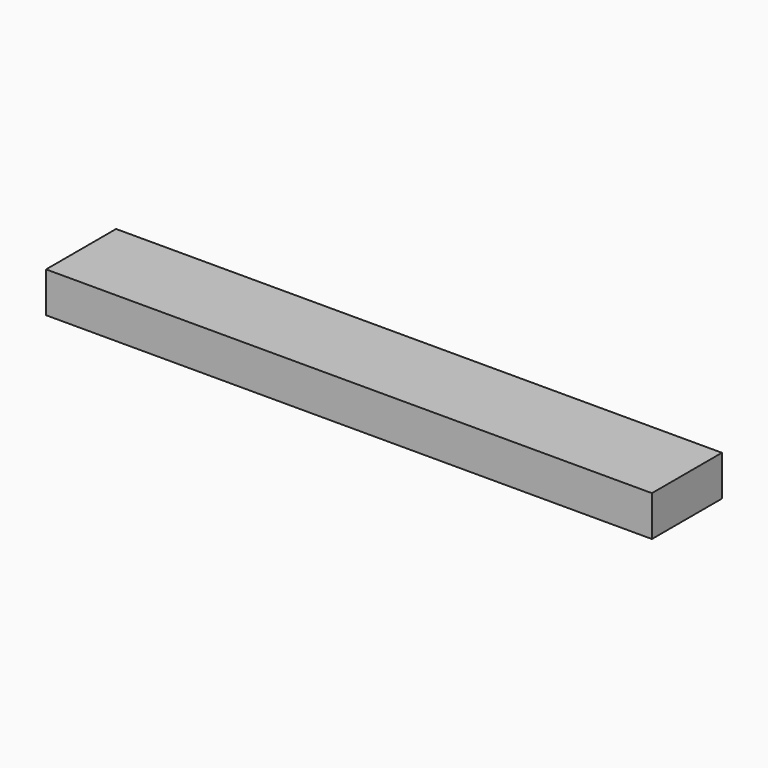
from build123d import *

# Parameters (mm, degrees)
SKETCH040_W             = 2.3
SKETCH040_H             = 1.7
PAD037_DEPTH            = 1.3
BODY038_PLACEMENT_ANGLE = 90
SKETCH031_W             = 3.2
SKETCH031_H             = 3
PAD028_DEPTH            = 1.2
CHAMFER014_SIZE         = 1
SKETCH030_W             = 3.2
SKETCH030_H             = 3
PAD027_DEPTH            = 1.2
CHAMFER013_SIZE         = 1
SKETCH037_W             = 2.3
SKETCH037_H             = 1.7
PAD034_DEPTH            = 0.5
BODY035_PLACEMENT_ANGLE = 90
SKETCH036_W             = 2.3
SKETCH036_H             = 1.7
PAD033_DEPTH            = 0.5
BODY034_PLACEMENT_ANGLE = 90
SKETCH028_W             = 3.2
SKETCH028_H             = 3
PAD025_DEPTH            = 1.2
CHAMFER011_SIZE         = 1
SKETCH029_W             = 3.2
SKETCH029_H             = 3
PAD026_DEPTH            = 1.2
CHAMFER012_SIZE         = 1
SKETCH054_W             = 3.2
SKETCH054_H             = 3
PAD049_DEPTH            = 1.2
CHAMFER021_SIZE         = 0.5
SKETCH055_W             = 1.850896
SKETCH055_H             = 1.017
SKETCH055_W_2           = 1.709498
SKETCH055_H_2           = 1.155216
POCKET005_DEPTH         = 5
BODY050_PLACEMENT_ANGLE = 180
SKETCH052_W             = 3.2
SKETCH052_H             = 3
PAD048_DEPTH            = 1.2
CHAMFER020_SIZE         = 1
SKETCH053_W             = 2.017963
SKETCH053_H             = 1.017
SKETCH053_W_2           = 1.827715
SKETCH053_H_2           = 1.155216
POCKET004_DEPTH         = 5
SKETCH048_W             = 2.3
SKETCH048_H             = 1.7
PAD045_DEPTH            = 0.9
BODY046_PLACEMENT_ANGLE = 90
SKETCH045_W             = 2.3
SKETCH045_H             = 1.7
PAD042_DEPTH            = 0.5
BODY043_PLACEMENT_ANGLE = 90
SKETCH044_W             = 2.3
SKETCH044_H             = 1.7
PAD041_DEPTH            = 0.5
BODY042_PLACEMENT_ANGLE = 90
SKETCH046_W             = 2.3
SKETCH046_H             = 1.7
PAD043_DEPTH            = 1.3
BODY044_PLACEMENT_ANGLE = 90
SKETCH049_W             = 2.3
SKETCH049_H             = 1.7
PAD046_DEPTH            = 0.9
BODY047_PLACEMENT_ANGLE = 90
SKETCH050_W             = 3.2
SKETCH050_H             = 3
PAD047_DEPTH            = 1.2
CHAMFER019_SIZE         = 1
SKETCH051_W             = 2.017963
SKETCH051_H             = 1.017
POCKET003_DEPTH         = 5
BODY048_PLACEMENT_ANGLE = 180
SKETCH042_W             = 2.3
SKETCH042_H             = 1.7
PAD039_DEPTH            = 0.5
BODY040_PLACEMENT_ANGLE = 90
SKETCH043_W             = 2.3
SKETCH043_H             = 1.7
PAD040_DEPTH            = 0.5
BODY041_PLACEMENT_ANGLE = 90
SKETCH047_W             = 2.3
SKETCH047_H             = 1.7
PAD044_DEPTH            = 0.5
BODY045_PLACEMENT_ANGLE = 90
SKETCH034_W             = 3.2
SKETCH034_H             = 3
PAD030_DEPTH            = 1.2
CHAMFER017_SIZE         = 1
SKETCH033_W             = 3.2
SKETCH033_H             = 3
PAD029_DEPTH            = 1.2
CHAMFER018_SIZE         = 1
SKETCH039_W             = 2.3
SKETCH039_H             = 1.7
PAD035_DEPTH            = 0.5
BODY037_PLACEMENT_ANGLE = 90
SKETCH038_W             = 2.3
SKETCH038_H             = 1.7
PAD036_DEPTH            = 0.5
BODY036_PLACEMENT_ANGLE = 90
SKETCH035_W             = 3.2
SKETCH035_H             = 3
PAD031_DEPTH            = 1.2
CHAMFER016_SIZE         = 1
SKETCH032_W             = 3.2
SKETCH032_H             = 3
PAD032_DEPTH            = 1.2
CHAMFER015_SIZE         = 1
SKETCH041_W             = 2.3
SKETCH041_H             = 1.7
PAD038_DEPTH            = 1.3
BODY039_PLACEMENT_ANGLE = 90
SKETCH056_W             = 90
SKETCH056_H             = 13
PAD050_DEPTH            = 6


with BuildPart() as capacitor_1u003:
    # Sketch040 → Pad037 (new body)
    with BuildSketch(Plane.XY):
        Rectangle(SKETCH040_W, SKETCH040_H)
    extrude(amount=PAD037_DEPTH)


with BuildPart() as capacitor_1u003_1:
    # Body038 placement: moved
    add(capacitor_1u003.part.moved(Location((-41.91, 0, 0))).rotate(Axis((-41.91, 0, 0), (0, 0, 1)), BODY038_PLACEMENT_ANGLE))


with BuildPart() as obj1:
    # Sketch031 → Pad028 (new body)
    with BuildSketch(Plane.XY):
        Rectangle(SKETCH031_W, SKETCH031_H)
    extrude(amount=PAD028_DEPTH)

    # Chamfer014
    chamfer014_edges = [obj1.edges().sort_by_distance(p)[0] for p in [
        (-1.6, 0, 1.2),
        (1.6, 0, 1.2),
    ]]
    chamfer(chamfer014_edges, length=CHAMFER014_SIZE)


with BuildPart() as obj1_1:
    # Body029 placement: moved
    add(obj1.part.moved(Location((-36.83, 0, 0))))


with BuildPart() as obj2:
    # Sketch030 → Pad027 (new body)
    with BuildSketch(Plane.XY):
        Rectangle(SKETCH030_W, SKETCH030_H)
    extrude(amount=PAD027_DEPTH)

    # Chamfer013
    chamfer013_edges = [obj2.edges().sort_by_distance(p)[0] for p in [
        (-1.6, 0, 1.2),
        (1.6, 0, 1.2),
    ]]
    chamfer(chamfer013_edges, length=CHAMFER013_SIZE)


with BuildPart() as obj2_1:
    # Body028 placement: moved
    add(obj2.part.moved(Location((-33.02, 0, 0))))


with BuildPart() as resistor_10k010:
    # Sketch037 → Pad034 (new body)
    with BuildSketch(Plane.XY):
        Rectangle(SKETCH037_W, SKETCH037_H)
    extrude(amount=PAD034_DEPTH)


with BuildPart() as resistor_10k010_1:
    # Body035 placement: moved
    add(resistor_10k010.part.moved(Location((-30.1625, 0, 0))).rotate(Axis((-30.1625, 0, 0), (0, 0, 1)), BODY035_PLACEMENT_ANGLE))


with BuildPart() as resistor_10k009:
    # Sketch036 → Pad033 (new body)
    with BuildSketch(Plane.XY):
        Rectangle(SKETCH036_W, SKETCH036_H)
    extrude(amount=PAD033_DEPTH)


with BuildPart() as resistor_10k009_1:
    # Body034 placement: moved
    add(resistor_10k009.part.moved(Location((-28.2575, 0, 0))).rotate(Axis((-28.2575, 0, 0), (0, 0, 1)), BODY034_PLACEMENT_ANGLE))


with BuildPart() as obj3:
    # Sketch028 → Pad025 (new body)
    with BuildSketch(Plane.XY):
        Rectangle(SKETCH028_W, SKETCH028_H)
    extrude(amount=PAD025_DEPTH)

    # Chamfer011
    chamfer011_edges = [obj3.edges().sort_by_distance(p)[0] for p in [
        (-1.6, 0, 1.2),
        (1.6, 0, 1.2),
    ]]
    chamfer(chamfer011_edges, length=CHAMFER011_SIZE)


with BuildPart() as obj3_1:
    # Body026 placement: moved
    add(obj3.part.moved(Location((-25.4, 0, 0))))


with BuildPart() as obj4:
    # Sketch029 → Pad026 (new body)
    with BuildSketch(Plane.XY):
        Rectangle(SKETCH029_W, SKETCH029_H)
    extrude(amount=PAD026_DEPTH)

    # Chamfer012
    chamfer012_edges = [obj4.edges().sort_by_distance(p)[0] for p in [
        (-1.6, 0, 1.2),
        (1.6, 0, 1.2),
    ]]
    chamfer(chamfer012_edges, length=CHAMFER012_SIZE)


with BuildPart() as obj4_1:
    # Body027 placement: moved
    add(obj4.part.moved(Location((-21.59, 0, 0))))


with BuildPart() as sot23_big001:
    # Sketch054 → Pad049 (new body)
    with BuildSketch(Plane.XY):
        Rectangle(SKETCH054_W, SKETCH054_H)
    extrude(amount=PAD049_DEPTH)

    # Chamfer021
    chamfer021_edges = [sot23_big001.edges().sort_by_distance(p)[0] for p in [
        (-1.6, 0, 1.2),
        (1.6, 0, 1.2),
    ]]
    chamfer(chamfer021_edges, length=CHAMFER021_SIZE)

    # Sketch055 (on Face5 of Chamfer021) → Pocket005 (cut)
    with BuildSketch(Plane.XY.offset(1.2)):
        with Locations((-1.851985, 0)):
            Rectangle(SKETCH055_W, SKETCH055_H)
        with Locations((1.75658, 1.133439)):
            Rectangle(SKETCH055_W_2, SKETCH055_H_2)
        with Locations((1.75658, -1.133439)):
            Rectangle(SKETCH055_W_2, SKETCH055_H_2)
    extrude(amount=-POCKET005_DEPTH, mode=Mode.SUBTRACT)


with BuildPart() as sot23_big001_1:
    # Body050 placement: moved
    add(sot23_big001.part.moved(Location((-16.51, 0, 0))).rotate(Axis((-16.51, 0, 0), (0, 0, 1)), BODY050_PLACEMENT_ANGLE))


with BuildPart() as sot23:
    # Sketch052 → Pad048 (new body)
    with BuildSketch(Plane.XY):
        Rectangle(SKETCH052_W, SKETCH052_H)
    extrude(amount=PAD048_DEPTH)

    # Chamfer020
    chamfer020_edges = [sot23.edges().sort_by_distance(p)[0] for p in [
        (-1.6, 0, 1.2),
        (1.6, 0, 1.2),
    ]]
    chamfer(chamfer020_edges, length=CHAMFER020_SIZE)

    # Sketch053 (on Face5 of Chamfer020) → Pocket004 (cut)
    with BuildSketch(Plane.XY.offset(1.2)):
        with Locations((-1.75199, 0)):
            Rectangle(SKETCH053_W, SKETCH053_H)
        with Locations((1.620688, 1.144909)):
            Rectangle(SKETCH053_W_2, SKETCH053_H_2)
        with Locations((1.620688, -1.144909)):
            Rectangle(SKETCH053_W_2, SKETCH053_H_2)
    extrude(amount=-POCKET004_DEPTH, mode=Mode.SUBTRACT)


with BuildPart() as sot23_1:
    # Body049 placement: moved
    add(sot23.part.moved(Location((-10.3251, 0, 0))))


with BuildPart() as capacitor_100n002:
    # Sketch048 → Pad045 (new body)
    with BuildSketch(Plane.XY):
        Rectangle(SKETCH048_W, SKETCH048_H)
    extrude(amount=PAD045_DEPTH)


with BuildPart() as capacitor_100n002_1:
    # Body046 placement: moved
    add(capacitor_100n002.part.moved(Location((-7.62, 0, 0))).rotate(Axis((-7.62, 0, 0), (0, 0, 1)), BODY046_PLACEMENT_ANGLE))


with BuildPart() as resistor_10k016:
    # Sketch045 → Pad042 (new body)
    with BuildSketch(Plane.XY):
        Rectangle(SKETCH045_W, SKETCH045_H)
    extrude(amount=PAD042_DEPTH)


with BuildPart() as resistor_10k016_1:
    # Body043 placement: moved
    add(resistor_10k016.part.moved(Location((-5.715, 0, 0))).rotate(Axis((-5.715, 0, 0), (0, 0, 1)), BODY043_PLACEMENT_ANGLE))


with BuildPart() as resistor_10k015:
    # Sketch044 → Pad041 (new body)
    with BuildSketch(Plane.XY):
        Rectangle(SKETCH044_W, SKETCH044_H)
    extrude(amount=PAD041_DEPTH)


with BuildPart() as resistor_10k015_1:
    # Body042 placement: moved
    add(resistor_10k015.part.moved(Location((-3.81, 0, 0))).rotate(Axis((-3.81, 0, 0), (0, 0, 1)), BODY042_PLACEMENT_ANGLE))


with BuildPart() as capacitor_1u005:
    # Sketch046 → Pad043 (new body)
    with BuildSketch(Plane.XY):
        Rectangle(SKETCH046_W, SKETCH046_H)
    extrude(amount=PAD043_DEPTH)


with BuildPart() as capacitor_1u005_1:
    # Body044 placement: moved
    add(capacitor_1u005.part.moved(Location((-1.905, 0, 0))).rotate(Axis((-1.905, 0, 0), (0, 0, 1)), BODY044_PLACEMENT_ANGLE))


with BuildPart() as capacitor_100n003:
    # Sketch049 → Pad046 (new body)
    with BuildSketch(Plane.XY):
        Rectangle(SKETCH049_W, SKETCH049_H)
    extrude(amount=PAD046_DEPTH)


with BuildPart() as capacitor_100n003_1:
    # Body047 placement: moved
    add(capacitor_100n003.part.moved(Location((3.81, 0, 0))).rotate(Axis((3.81, 0, 0), (0, 0, 1)), BODY047_PLACEMENT_ANGLE))


with BuildPart() as body048:
    # Sketch050 → Pad047 (new body)
    with BuildSketch(Plane.XY):
        Rectangle(SKETCH050_W, SKETCH050_H)
    extrude(amount=PAD047_DEPTH)

    # Chamfer019
    chamfer019_edges = [body048.edges().sort_by_distance(p)[0] for p in [
        (-1.6, 0, 1.2),
        (1.6, 0, 1.2),
    ]]
    chamfer(chamfer019_edges, length=CHAMFER019_SIZE)

    # Sketch051 (on Face5 of Chamfer019) → Pocket003 (cut)
    with BuildSketch(Plane.XY.offset(1.2)):
        with Locations((-1.75199, 0)):
            Rectangle(SKETCH051_W, SKETCH051_H)
    extrude(amount=-POCKET003_DEPTH, mode=Mode.SUBTRACT)


with BuildPart() as body048_1:
    # Body048 placement: moved
    add(body048.part.moved(Location((6.985, 0, 0))).rotate(Axis((6.985, 0, 0), (0, 0, 1)), BODY048_PLACEMENT_ANGLE))


with BuildPart() as resistor_10k013:
    # Sketch042 → Pad039 (new body)
    with BuildSketch(Plane.XY):
        Rectangle(SKETCH042_W, SKETCH042_H)
    extrude(amount=PAD039_DEPTH)


with BuildPart() as resistor_10k013_1:
    # Body040 placement: moved
    add(resistor_10k013.part.rotate(Axis((0, 0, 0), (0, 0, 1)), BODY040_PLACEMENT_ANGLE))


with BuildPart() as resistor_10k014:
    # Sketch043 → Pad040 (new body)
    with BuildSketch(Plane.XY):
        Rectangle(SKETCH043_W, SKETCH043_H)
    extrude(amount=PAD040_DEPTH)


with BuildPart() as resistor_10k014_1:
    # Body041 placement: moved
    add(resistor_10k014.part.moved(Location((1.905, 0, 0))).rotate(Axis((1.905, 0, 0), (0, 0, 1)), BODY041_PLACEMENT_ANGLE))


with BuildPart() as resistor_10k017:
    # Sketch047 → Pad044 (new body)
    with BuildSketch(Plane.XY):
        Rectangle(SKETCH047_W, SKETCH047_H)
    extrude(amount=PAD044_DEPTH)


with BuildPart() as resistor_10k017_1:
    # Body045 placement: moved
    add(resistor_10k017.part.moved(Location((10.16, 0, 0))).rotate(Axis((10.16, 0, 0), (0, 0, 1)), BODY045_PLACEMENT_ANGLE))


with BuildPart() as obj5:
    # Sketch034 → Pad030 (new body)
    with BuildSketch(Plane.XY):
        Rectangle(SKETCH034_W, SKETCH034_H)
    extrude(amount=PAD030_DEPTH)

    # Chamfer017
    chamfer017_edges = [obj5.edges().sort_by_distance(p)[0] for p in [
        (-1.6, 0, 1.2),
        (1.6, 0, 1.2),
    ]]
    chamfer(chamfer017_edges, length=CHAMFER017_SIZE)


with BuildPart() as obj5_1:
    # Body031 placement: moved
    add(obj5.part.moved(Location((21.59, 0, 0))))


with BuildPart() as obj6:
    # Sketch033 → Pad029 (new body)
    with BuildSketch(Plane.XY):
        Rectangle(SKETCH033_W, SKETCH033_H)
    extrude(amount=PAD029_DEPTH)

    # Chamfer018
    chamfer018_edges = [obj6.edges().sort_by_distance(p)[0] for p in [
        (-1.6, 0, 1.2),
        (1.6, 0, 1.2),
    ]]
    chamfer(chamfer018_edges, length=CHAMFER018_SIZE)


with BuildPart() as obj6_1:
    # Body030 placement: moved
    add(obj6.part.moved(Location((25.4, 0, 0))))


with BuildPart() as resistor_10k012:
    # Sketch039 → Pad035 (new body)
    with BuildSketch(Plane.XY):
        Rectangle(SKETCH039_W, SKETCH039_H)
    extrude(amount=PAD035_DEPTH)


with BuildPart() as resistor_10k012_1:
    # Body037 placement: moved
    add(resistor_10k012.part.moved(Location((28.26, 0, 0))).rotate(Axis((28.26, 0, 0), (0, 0, 1)), BODY037_PLACEMENT_ANGLE))


with BuildPart() as resistor_10k011:
    # Sketch038 → Pad036 (new body)
    with BuildSketch(Plane.XY):
        Rectangle(SKETCH038_W, SKETCH038_H)
    extrude(amount=PAD036_DEPTH)


with BuildPart() as resistor_10k011_1:
    # Body036 placement: moved
    add(resistor_10k011.part.moved(Location((30.16, 0, 0))).rotate(Axis((30.16, 0, 0), (0, 0, 1)), BODY036_PLACEMENT_ANGLE))


with BuildPart() as obj7:
    # Sketch035 → Pad031 (new body)
    with BuildSketch(Plane.XY):
        Rectangle(SKETCH035_W, SKETCH035_H)
    extrude(amount=PAD031_DEPTH)

    # Chamfer016
    chamfer016_edges = [obj7.edges().sort_by_distance(p)[0] for p in [
        (-1.6, 0, 1.2),
        (1.6, 0, 1.2),
    ]]
    chamfer(chamfer016_edges, length=CHAMFER016_SIZE)


with BuildPart() as obj7_1:
    # Body032 placement: moved
    add(obj7.part.moved(Location((33.02, 0, 0))))


with BuildPart() as obj8:
    # Sketch032 → Pad032 (new body)
    with BuildSketch(Plane.XY):
        Rectangle(SKETCH032_W, SKETCH032_H)
    extrude(amount=PAD032_DEPTH)

    # Chamfer015
    chamfer015_edges = [obj8.edges().sort_by_distance(p)[0] for p in [
        (-1.6, 0, 1.2),
        (1.6, 0, 1.2),
    ]]
    chamfer(chamfer015_edges, length=CHAMFER015_SIZE)


with BuildPart() as obj8_1:
    # Body033 placement: moved
    add(obj8.part.moved(Location((36.83, 0, 0))))


with BuildPart() as capacitor_1u004:
    # Sketch041 → Pad038 (new body)
    with BuildSketch(Plane.XY):
        Rectangle(SKETCH041_W, SKETCH041_H)
    extrude(amount=PAD038_DEPTH)


with BuildPart() as capacitor_1u004_1:
    # Body039 placement: moved
    add(capacitor_1u004.part.moved(Location((41.91, 0, 0))).rotate(Axis((41.91, 0, 0), (0, 0, 1)), BODY039_PLACEMENT_ANGLE))


with BuildPart() as body025:
    # Sketch056 → Pad050 (new body)
    with BuildSketch(Plane.XY):
        with Locations((0, 4.5)):
            Rectangle(SKETCH056_W, SKETCH056_H)
    extrude(amount=PAD050_DEPTH)

    # Boolean: cut Capacitor 1u003, obj1, obj2, Resistor 10k010, Resistor 10k009, obj3, obj4, Sot23-big001, Sot23, Capacitor 100n002, Resistor 10k016, Resistor 10k015, Capacitor 1u005, Capacitor 100n003, Body048, Resistor 10k013, Resistor 10k014, Resistor 10k017, obj5, obj6, Resistor 10k012, Resistor 10k011, obj7, obj8, Capacitor 1u004
    add(capacitor_1u003_1.part, mode=Mode.SUBTRACT)
    add(obj1_1.part, mode=Mode.SUBTRACT)
    add(obj2_1.part, mode=Mode.SUBTRACT)
    add(resistor_10k010_1.part, mode=Mode.SUBTRACT)
    add(resistor_10k009_1.part, mode=Mode.SUBTRACT)
    add(obj3_1.part, mode=Mode.SUBTRACT)
    add(obj4_1.part, mode=Mode.SUBTRACT)
    add(sot23_big001_1.part, mode=Mode.SUBTRACT)
    add(sot23_1.part, mode=Mode.SUBTRACT)
    add(capacitor_100n002_1.part, mode=Mode.SUBTRACT)
    add(resistor_10k016_1.part, mode=Mode.SUBTRACT)
    add(resistor_10k015_1.part, mode=Mode.SUBTRACT)
    add(capacitor_1u005_1.part, mode=Mode.SUBTRACT)
    add(capacitor_100n003_1.part, mode=Mode.SUBTRACT)
    add(body048_1.part, mode=Mode.SUBTRACT)
    add(resistor_10k013_1.part, mode=Mode.SUBTRACT)
    add(resistor_10k014_1.part, mode=Mode.SUBTRACT)
    add(resistor_10k017_1.part, mode=Mode.SUBTRACT)
    add(obj5_1.part, mode=Mode.SUBTRACT)
    add(obj6_1.part, mode=Mode.SUBTRACT)
    add(resistor_10k012_1.part, mode=Mode.SUBTRACT)
    add(resistor_10k011_1.part, mode=Mode.SUBTRACT)
    add(obj7_1.part, mode=Mode.SUBTRACT)
    add(obj8_1.part, mode=Mode.SUBTRACT)
    add(capacitor_1u004_1.part, mode=Mode.SUBTRACT)


solid = body025.part
